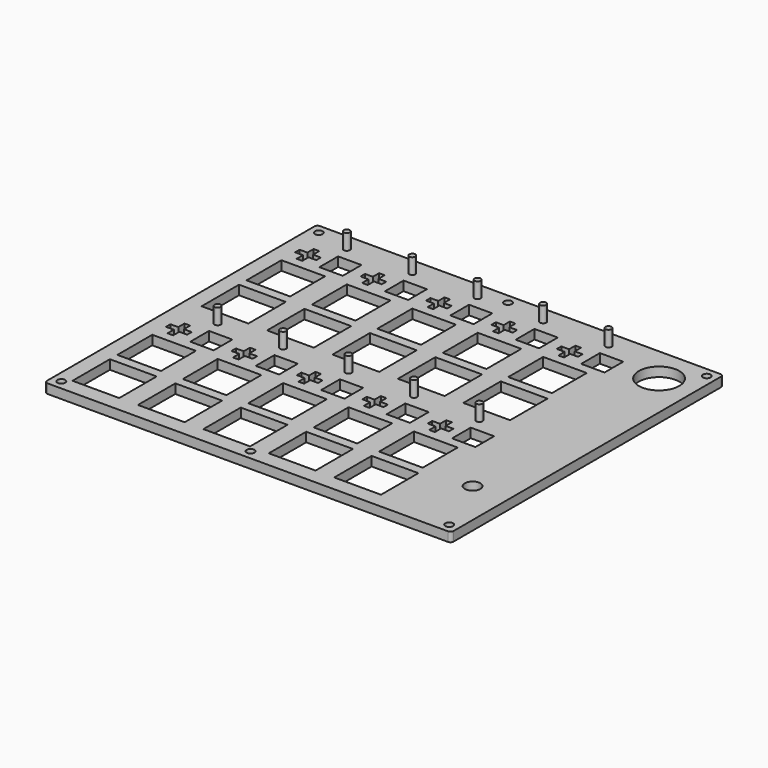
from build123d import *

# Parameters (mm, degrees)
SKETCH_W     = 130.5
SKETCH_H     = 109.3
SKETCH_R     = 6.5
SKETCH_R_2   = 2.5
SKETCH_R_3   = 1.25
SKETCH_W_2   = 15
SKETCH_H_2   = 15
SKETCH_W_3   = 14
SKETCH_H_3   = 14
SKETCH_W_4   = 7.5
SKETCH_H_4   = 7.5
PAD_DEPTH    = 3
SKETCH001_R  = 1
PAD001_DEPTH = 5
FILLET_R     = 1


with BuildPart() as part:
    # Sketch → Pad (new body)
    with BuildSketch(Plane.XY):
        with Locations((60.25, 49.65)):
            Rectangle(SKETCH_W, SKETCH_H)
        with Locations((114, 92.8)):
            Circle(SKETCH_R, mode=Mode.SUBTRACT)
        with Locations((114, 18)):
            Circle(SKETCH_R_2, mode=Mode.SUBTRACT)
        with Locations((-2, 101.3)):
            Circle(SKETCH_R_3, mode=Mode.SUBTRACT)
        with Locations((58.75, 101.3)):
            Circle(SKETCH_R_3, mode=Mode.SUBTRACT)
        with Locations((122.5, 101.3)):
            Circle(SKETCH_R_3, mode=Mode.SUBTRACT)
        with Locations((-2, -2)):
            Circle(SKETCH_R_3, mode=Mode.SUBTRACT)
        with Locations((58.75, -2)):
            Circle(SKETCH_R_3, mode=Mode.SUBTRACT)
        with Locations((122.5, -2)):
            Circle(SKETCH_R_3, mode=Mode.SUBTRACT)
        with Locations((7.5, 59.3)):
            Rectangle(SKETCH_W_2, SKETCH_H_2, mode=Mode.SUBTRACT)
        with Locations((7, 76.8)):
            Rectangle(SKETCH_W_3, SKETCH_H_3, mode=Mode.SUBTRACT)
        with Locations((13.55, 90.55)):
            Rectangle(SKETCH_W_4, SKETCH_H_4, mode=Mode.SUBTRACT)
        Polygon((2.5, 93.6), (4.3, 93.6), (4.3, 91.1), (6.8, 91.1), (6.8, 89.3), (4.3, 89.3), (4.3, 86.8), (2.5, 86.8), (2.5, 89.3), (0, 89.3), (0, 91.1), (2.5, 91.1), align=None, mode=Mode.SUBTRACT)
        with Locations((49.5, 59.3)):
            Rectangle(SKETCH_W_2, SKETCH_H_2, mode=Mode.SUBTRACT)
        with Locations((49, 76.8)):
            Rectangle(SKETCH_W_3, SKETCH_H_3, mode=Mode.SUBTRACT)
        with Locations((55.55, 90.55)):
            Rectangle(SKETCH_W_4, SKETCH_H_4, mode=Mode.SUBTRACT)
        Polygon((44.5, 93.6), (46.3, 93.6), (46.3, 91.1), (48.8, 91.1), (48.8, 89.3), (46.3, 89.3), (46.3, 86.8), (44.5, 86.8), (44.5, 89.3), (42, 89.3), (42, 91.1), (44.5, 91.1), align=None, mode=Mode.SUBTRACT)
        with Locations((70.5, 59.3)):
            Rectangle(SKETCH_W_2, SKETCH_H_2, mode=Mode.SUBTRACT)
        with Locations((70, 76.8)):
            Rectangle(SKETCH_W_3, SKETCH_H_3, mode=Mode.SUBTRACT)
        with Locations((76.55, 90.55)):
            Rectangle(SKETCH_W_4, SKETCH_H_4, mode=Mode.SUBTRACT)
        Polygon((65.5, 93.6), (67.3, 93.6), (67.3, 91.1), (69.8, 91.1), (69.8, 89.3), (67.3, 89.3), (67.3, 86.8), (65.5, 86.8), (65.5, 89.3), (63, 89.3), (63, 91.1), (65.5, 91.1), align=None, mode=Mode.SUBTRACT)
        with Locations((91.5, 59.3)):
            Rectangle(SKETCH_W_2, SKETCH_H_2, mode=Mode.SUBTRACT)
        with Locations((91, 76.8)):
            Rectangle(SKETCH_W_3, SKETCH_H_3, mode=Mode.SUBTRACT)
        with Locations((97.55, 90.55)):
            Rectangle(SKETCH_W_4, SKETCH_H_4, mode=Mode.SUBTRACT)
        Polygon((86.5, 93.6), (88.3, 93.6), (88.3, 91.1), (90.8, 91.1), (90.8, 89.3), (88.3, 89.3), (88.3, 86.8), (86.5, 86.8), (86.5, 89.3), (84, 89.3), (84, 91.1), (86.5, 91.1), align=None, mode=Mode.SUBTRACT)
        with Locations((28.5, 59.3)):
            Rectangle(SKETCH_W_2, SKETCH_H_2, mode=Mode.SUBTRACT)
        with Locations((28, 76.8)):
            Rectangle(SKETCH_W_3, SKETCH_H_3, mode=Mode.SUBTRACT)
        with Locations((34.55, 90.55)):
            Rectangle(SKETCH_W_4, SKETCH_H_4, mode=Mode.SUBTRACT)
        Polygon((23.5, 93.6), (25.3, 93.6), (25.3, 91.1), (27.8, 91.1), (27.8, 89.3), (25.3, 89.3), (25.3, 86.8), (23.5, 86.8), (23.5, 89.3), (21, 89.3), (21, 91.1), (23.5, 91.1), align=None, mode=Mode.SUBTRACT)
        with Locations((7.5, 7.5)):
            Rectangle(SKETCH_W_2, SKETCH_H_2, mode=Mode.SUBTRACT)
        with Locations((7, 25)):
            Rectangle(SKETCH_W_3, SKETCH_H_3, mode=Mode.SUBTRACT)
        with Locations((13.55, 38.75)):
            Rectangle(SKETCH_W_4, SKETCH_H_4, mode=Mode.SUBTRACT)
        Polygon((2.5, 41.8), (4.3, 41.8), (4.3, 39.3), (6.8, 39.3), (6.8, 37.5), (4.3, 37.5), (4.3, 35), (2.5, 35), (2.5, 37.5), (0, 37.5), (0, 39.3), (2.5, 39.3), align=None, mode=Mode.SUBTRACT)
        with Locations((49.5, 7.5)):
            Rectangle(SKETCH_W_2, SKETCH_H_2, mode=Mode.SUBTRACT)
        with Locations((49, 25)):
            Rectangle(SKETCH_W_3, SKETCH_H_3, mode=Mode.SUBTRACT)
        with Locations((55.55, 38.75)):
            Rectangle(SKETCH_W_4, SKETCH_H_4, mode=Mode.SUBTRACT)
        Polygon((44.5, 41.8), (46.3, 41.8), (46.3, 39.3), (48.8, 39.3), (48.8, 37.5), (46.3, 37.5), (46.3, 35), (44.5, 35), (44.5, 37.5), (42, 37.5), (42, 39.3), (44.5, 39.3), align=None, mode=Mode.SUBTRACT)
        with Locations((70.5, 7.5)):
            Rectangle(SKETCH_W_2, SKETCH_H_2, mode=Mode.SUBTRACT)
        with Locations((70, 25)):
            Rectangle(SKETCH_W_3, SKETCH_H_3, mode=Mode.SUBTRACT)
        with Locations((76.55, 38.75)):
            Rectangle(SKETCH_W_4, SKETCH_H_4, mode=Mode.SUBTRACT)
        Polygon((65.5, 41.8), (67.3, 41.8), (67.3, 39.3), (69.8, 39.3), (69.8, 37.5), (67.3, 37.5), (67.3, 35), (65.5, 35), (65.5, 37.5), (63, 37.5), (63, 39.3), (65.5, 39.3), align=None, mode=Mode.SUBTRACT)
        with Locations((91.5, 7.5)):
            Rectangle(SKETCH_W_2, SKETCH_H_2, mode=Mode.SUBTRACT)
        with Locations((91, 25)):
            Rectangle(SKETCH_W_3, SKETCH_H_3, mode=Mode.SUBTRACT)
        with Locations((97.55, 38.75)):
            Rectangle(SKETCH_W_4, SKETCH_H_4, mode=Mode.SUBTRACT)
        Polygon((86.5, 41.8), (88.3, 41.8), (88.3, 39.3), (90.8, 39.3), (90.8, 37.5), (88.3, 37.5), (88.3, 35), (86.5, 35), (86.5, 37.5), (84, 37.5), (84, 39.3), (86.5, 39.3), align=None, mode=Mode.SUBTRACT)
        with Locations((28.5, 7.5)):
            Rectangle(SKETCH_W_2, SKETCH_H_2, mode=Mode.SUBTRACT)
        with Locations((28, 25)):
            Rectangle(SKETCH_W_3, SKETCH_H_3, mode=Mode.SUBTRACT)
        with Locations((34.55, 38.75)):
            Rectangle(SKETCH_W_4, SKETCH_H_4, mode=Mode.SUBTRACT)
        Polygon((23.5, 41.8), (25.3, 41.8), (25.3, 39.3), (27.8, 39.3), (27.8, 37.5), (25.3, 37.5), (25.3, 35), (23.5, 35), (23.5, 37.5), (21, 37.5), (21, 39.3), (23.5, 39.3), align=None, mode=Mode.SUBTRACT)
    extrude(amount=PAD_DEPTH)

    # Sketch001 (on Face254 of Pad) → Pad001 (join)
    with BuildSketch(Plane.XY.offset(3)):
        with Locations((9, 98.8)):
            Circle(SKETCH001_R)
        with Locations((30, 98.8)):
            Circle(SKETCH001_R)
        with Locations((51, 98.8)):
            Circle(SKETCH001_R)
        with Locations((72, 98.8)):
            Circle(SKETCH001_R)
        with Locations((93, 98.8)):
            Circle(SKETCH001_R)
        with Locations((9, 47)):
            Circle(SKETCH001_R)
        with Locations((30, 47)):
            Circle(SKETCH001_R)
        with Locations((51, 47)):
            Circle(SKETCH001_R)
        with Locations((72, 47)):
            Circle(SKETCH001_R)
        with Locations((93, 47)):
            Circle(SKETCH001_R)
    extrude(amount=PAD001_DEPTH)

    # Fillet
    fillet_edges = [part.edges().sort_by_distance(p)[0] for p in [
        (-5, 104.3, 1.5),
        (125.5, 104.3, 1.5),
        (-5, -5, 1.5),
        (125.5, -5, 1.5),
    ]]
    fillet(fillet_edges, radius=FILLET_R)


solid = part.part
